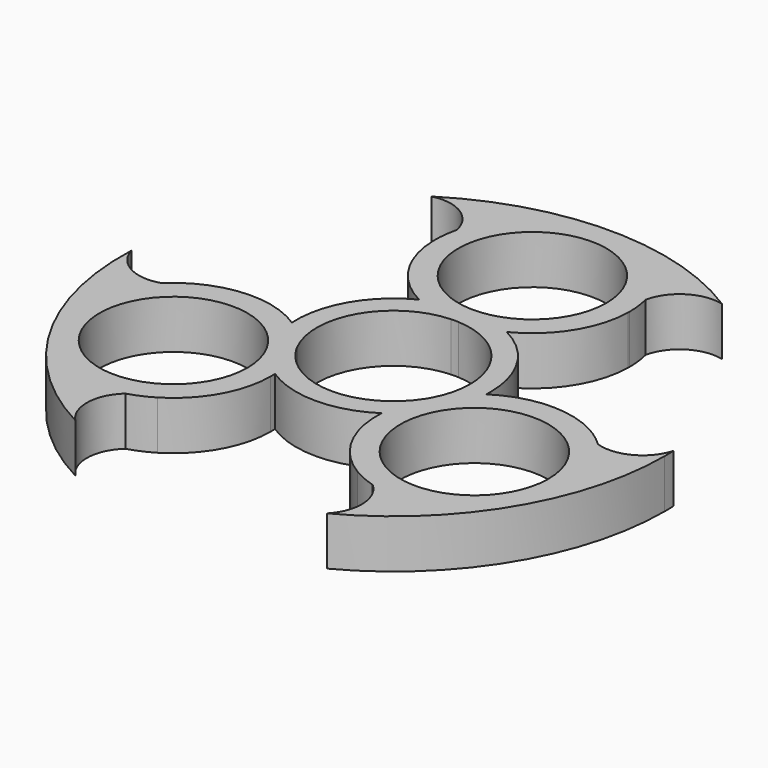
from build123d import *

# Parameters (mm, degrees)
F0_R     = 10.65
F1_DEPTH = 7


with BuildPart() as f1:
    # F0 (on Top) → F1 (new body)
    with BuildSketch(Plane.XY):
        with BuildLine():
            ThreePointArc((-13.5850223899, 28.3841313799), (0, 39.0007652062), (13.5850223899, 28.3841313799))
            ThreePointArc((13.5850223899, 28.3841313799), (16.2654595363, 32.2301803319), (20.8939522359, 32.9744189809))
            ThreePointArc((20.8939522359, 32.9744189809), (0, 39.0367717308), (-20.8939522359, 32.9744189809))
            ThreePointArc((-20.8939522359, 32.9744189809), (-16.2654595363, 32.2301803319), (-13.5850223899, 28.3841313799))
        make_face()
        with BuildLine():
            ThreePointArc((-17.7888676444, -25.9570401906), (-33.7756534356, -19.5003826031), (-31.3738900343, -2.4270911893))
            ThreePointArc((-31.3738900343, -2.4270911893), (-36.0448847041, -2.0287890033), (-39.0036606305, 1.6074839313))
            ThreePointArc((-39.0036606305, 1.6074839313), (-33.8068360006, -19.5183858654), (-18.1097083945, -34.5819029122))
            ThreePointArc((-18.1097083945, -34.5819029122), (-19.7794251679, -30.2013913286), (-17.7888676444, -25.9570401906))
        make_face()
        with BuildLine():
            ThreePointArc((39.0036606305, 1.6074839313), (36.0448847041, -2.0287890033), (31.3738900343, -2.4270911893))
            ThreePointArc((31.3738900343, -2.4270911893), (34.537652805, -7.0284675601), (35.6512977827, -12.5003826031))
            ThreePointArc((35.6512977827, -12.5003826031), (30.0752510726, -23.6823775489), (17.7888676444, -25.9570401906))
            ThreePointArc((17.7888676444, -25.9570401906), (19.2622478562, -27.9781893195), (19.783572277, -30.424434176))
            ThreePointArc((19.783572277, -30.424434176), (19.3493973149, -32.6653249916), (18.1097083945, -34.5819029122))
            ThreePointArc((18.1097083945, -34.5819029122), (33.3977102499, -20.2104551465), (39.0367717308, 0))
            ThreePointArc((39.0367717308, 0), (39.0284930779, 0.8039124539), (39.0036606305, 1.6074839313))
        make_face()
        with BuildLine():
            ThreePointArc((-6.3040014892, 12.5003826031), (0, 14), (6.3040014892, 12.5003826031))
            ThreePointArc((6.3040014892, 12.5003826031), (11.832295091, 17.5176647206), (13.9959216435, 24.6628638175))
            ThreePointArc((13.9959216435, 24.6628638175), (13.4927928191, 26.4906281105), (13.5850223899, 28.3841313799))
            ThreePointArc((13.5850223899, 28.3841313799), (0, 39.0007652062), (-13.5850223899, 28.3841313799))
            ThreePointArc((-13.5850223899, 28.3841313799), (-13.4887520947, 27.7699684348), (-13.4565467536, 27.1491408348))
            ThreePointArc((-13.4565467536, 27.1491408348), (-13.592940753, 25.8770855413), (-13.9959216435, 24.6628638175))
            ThreePointArc((-13.9959216435, 24.6628638175), (-11.832295091, 17.5176647206), (-6.3040014892, 12.5003826031))
        make_face()
        with Locations((0, 25.0007652062)):
            Circle(F0_R, mode=Mode.SUBTRACT)
        with BuildLine():
            ThreePointArc((0.5466252979, 11.011440677), (7.9867755981, 7.6001342452), (11.025, 0))
            ThreePointArc((11.025, 0), (10.7168176849, -2.5885215294), (9.8095000075, -5.0323289441))
            ThreePointArc((9.8095000075, -5.0323289441), (11.6657646613, -2.6876802087), (13.9776496359, -0.7907658664))
            ThreePointArc((13.9776496359, -0.7907658664), (13.9944112935, -0.3955408305), (14, 0))
            ThreePointArc((14, 0), (11.9217452759, 7.3397540542), (6.3040014892, 12.5003826031))
            ThreePointArc((6.3040014892, 12.5003826031), (3.5052829927, 11.4466886556), (0.5466252979, 11.011440677))
        make_face()
        with BuildLine():
            ThreePointArc((-9.8095000075, -5.0323289441), (-9.5479300767, 5.5125), (-0.5466252979, 11.011440677))
            ThreePointArc((-0.5466252979, 11.011440677), (-3.5052829927, 11.4466886556), (-6.3040014892, 12.5003826031))
            ThreePointArc((-6.3040014892, 12.5003826031), (-12.124355653, 7), (-13.9776496359, -0.7907658664))
            ThreePointArc((-13.9776496359, -0.7907658664), (-11.6657646613, -2.6876802087), (-9.8095000075, -5.0323289441))
        make_face()
        with BuildLine():
            ThreePointArc((-9.2628747096, -5.9791117329), (-9.5479300767, -5.5125), (-9.8095000075, -5.0323289441))
            ThreePointArc((-9.8095000075, -5.0323289441), (-11.6657646613, -2.6876802087), (-13.9776496359, -0.7907658664))
            ThreePointArc((-13.9776496359, -0.7907658664), (-12.124355653, -7), (-7.6736481467, -11.7096167367))
            ThreePointArc((-7.6736481467, -11.7096167367), (-8.1604816686, -8.7590084469), (-9.2628747096, -5.9791117329))
        make_face()
        with BuildLine():
            ThreePointArc((7.6736481467, -11.7096167367), (8.1604816686, -8.7590084469), (9.2628747096, -5.9791117329))
            ThreePointArc((9.2628747096, -5.9791117329), (0, -11.025), (-9.2628747096, -5.9791117329))
            ThreePointArc((-9.2628747096, -5.9791117329), (-8.1604816686, -8.7590084469), (-7.6736481467, -11.7096167367))
            ThreePointArc((-7.6736481467, -11.7096167367), (0, -14), (7.6736481467, -11.7096167367))
        make_face()
        with BuildLine():
            ThreePointArc((-0.5466252979, 11.011440677), (0, 11.025), (0.5466252979, 11.011440677))
            ThreePointArc((0.5466252979, 11.011440677), (3.5052829927, 11.4466886556), (6.3040014892, 12.5003826031))
            ThreePointArc((6.3040014892, 12.5003826031), (0, 14), (-6.3040014892, 12.5003826031))
            ThreePointArc((-6.3040014892, 12.5003826031), (-3.5052829927, 11.4466886556), (-0.5466252979, 11.011440677))
        make_face()
        with BuildLine():
            ThreePointArc((13.9776496359, -0.7907658664), (11.6657646613, -2.6876802087), (9.8095000075, -5.0323289441))
            ThreePointArc((9.8095000075, -5.0323289441), (9.5479300767, -5.5125), (9.2628747096, -5.9791117329))
            ThreePointArc((9.2628747096, -5.9791117329), (8.1604816686, -8.7590084469), (7.6736481467, -11.7096167367))
            ThreePointArc((7.6736481467, -11.7096167367), (12.124355653, -7), (13.9776496359, -0.7907658664))
        make_face()
        with BuildLine():
            ThreePointArc((28.3566274178, -0.2106082161), (21.0868902085, 1.4882357736), (13.9776496359, -0.7907658664))
            ThreePointArc((13.9776496359, -0.7907658664), (12.124355653, -7), (7.6736481467, -11.7096167367))
            ThreePointArc((7.6736481467, -11.7096167367), (9.2545951175, -19.0059004942), (14.3607057743, -24.4522556014))
            ThreePointArc((14.3607057743, -24.4522556014), (16.1951604964, -24.9304154046), (17.7888676444, -25.9570401906))
            ThreePointArc((17.7888676444, -25.9570401906), (30.0752510726, -23.6823775489), (35.6512977827, -12.5003826031))
            ThreePointArc((35.6512977827, -12.5003826031), (34.537652805, -7.0284675601), (31.3738900343, -2.4270911893))
            ThreePointArc((31.3738900343, -2.4270911893), (29.6879533155, -1.5602127059), (28.3566274178, -0.2106082161))
        make_face()
        with Locations((21.6512977827, -12.5003826031)):
            Circle(F0_R, mode=Mode.SUBTRACT)
        with BuildLine():
            ThreePointArc((-7.6736481467, -11.7096167367), (-12.124355653, -7), (-13.9776496359, -0.7907658664))
            ThreePointArc((-13.9776496359, -0.7907658664), (-21.0868902085, 1.4882357736), (-28.3566274178, -0.2106082161))
            ThreePointArc((-28.3566274178, -0.2106082161), (-29.6879533155, -1.5602127059), (-31.3738900343, -2.4270911893))
            ThreePointArc((-31.3738900343, -2.4270911893), (-33.7756534356, -19.5003826031), (-17.7888676444, -25.9570401906))
            ThreePointArc((-17.7888676444, -25.9570401906), (-16.1951604964, -24.9304154046), (-14.3607057743, -24.4522556014))
            ThreePointArc((-14.3607057743, -24.4522556014), (-9.4433436519, -19.3535465397), (-7.6512977827, -12.5003826031))
            ThreePointArc((-7.6512977827, -12.5003826031), (-7.6568864892, -12.1048417726), (-7.6736481467, -11.7096167367))
        make_face()
        with Locations((-21.6512977827, -12.5003826031)):
            Circle(F0_R, mode=Mode.SUBTRACT)
        with BuildLine():
            ThreePointArc((-31.3738900343, -2.4270911893), (-29.6879533155, -1.5602127059), (-28.3566274178, -0.2106082161))
            ThreePointArc((-28.3566274178, -0.2106082161), (-29.9396844515, -1.2175351599), (-31.3738900343, -2.4270911893))
        make_face()
        with BuildLine():
            ThreePointArc((-13.5850223899, 28.3841313799), (-13.9154258473, 26.5372948962), (-13.9959216435, 24.6628638175))
            ThreePointArc((-13.9959216435, 24.6628638175), (-13.592940753, 25.8770855413), (-13.4565467536, 27.1491408348))
            ThreePointArc((-13.4565467536, 27.1491408348), (-13.4887520947, 27.7699684348), (-13.5850223899, 28.3841313799))
        make_face()
        with BuildLine():
            ThreePointArc((13.5850223899, 28.3841313799), (13.4927928191, 26.4906281105), (13.9959216435, 24.6628638175))
            ThreePointArc((13.9959216435, 24.6628638175), (13.9989803737, 24.8318022062), (14, 25.0007652062))
            ThreePointArc((14, 25.0007652062), (13.8958683331, 26.7051252828), (13.5850223899, 28.3841313799))
        make_face()
        with BuildLine():
            ThreePointArc((31.3738900343, -2.4270911893), (29.9396844515, -1.2175351599), (28.3566274178, -0.2106082161))
            ThreePointArc((28.3566274178, -0.2106082161), (29.6879533155, -1.5602127059), (31.3738900343, -2.4270911893))
        make_face()
        with BuildLine():
            ThreePointArc((17.7888676444, -25.9570401906), (16.1951604964, -24.9304154046), (14.3607057743, -24.4522556014))
            ThreePointArc((14.3607057743, -24.4522556014), (16.0242586042, -25.3197597364), (17.7888676444, -25.9570401906))
        make_face()
        with BuildLine():
            ThreePointArc((-17.7888676444, -25.9570401906), (-16.0242586042, -25.3197597364), (-14.3607057743, -24.4522556014))
            ThreePointArc((-14.3607057743, -24.4522556014), (-16.1951604964, -24.9304154046), (-17.7888676444, -25.9570401906))
        make_face()
    extrude(amount=F1_DEPTH)


solid = f1.part
